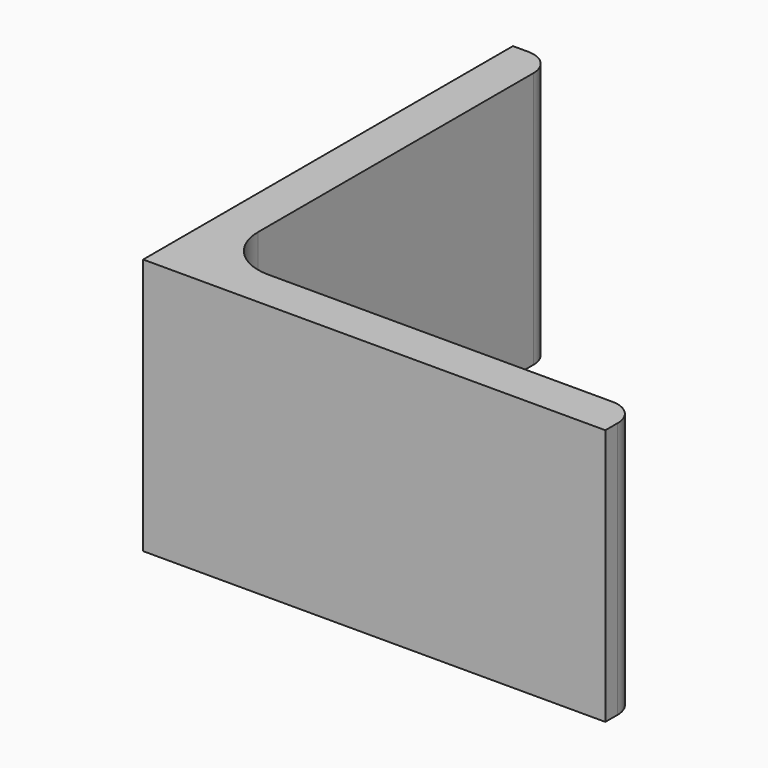
from build123d import *

# Parameters (mm, degrees)
EXTRUDE_DEPTH = 50


with BuildPart() as part:
    # Sketch → Extrude (new body)
    with BuildSketch(Plane.XY):
        with BuildLine():
            Line((0, 0), (90, 0))
            Line((90, 0), (90, 3))
            ThreePointArc((90, 3), (88.535534, 6.535534), (85, 8))
            Line((85, 8), (18, 8))
            ThreePointArc((8, 18), (10.928932, 10.928932), (18, 8))
            Line((8, 85), (8, 18))
            ThreePointArc((8, 85), (6.535534, 88.535534), (3, 90))
            Line((0, 90), (3, 90))
            Line((0, 0), (0, 90))
        make_face()
    extrude(amount=EXTRUDE_DEPTH)


solid = part.part
